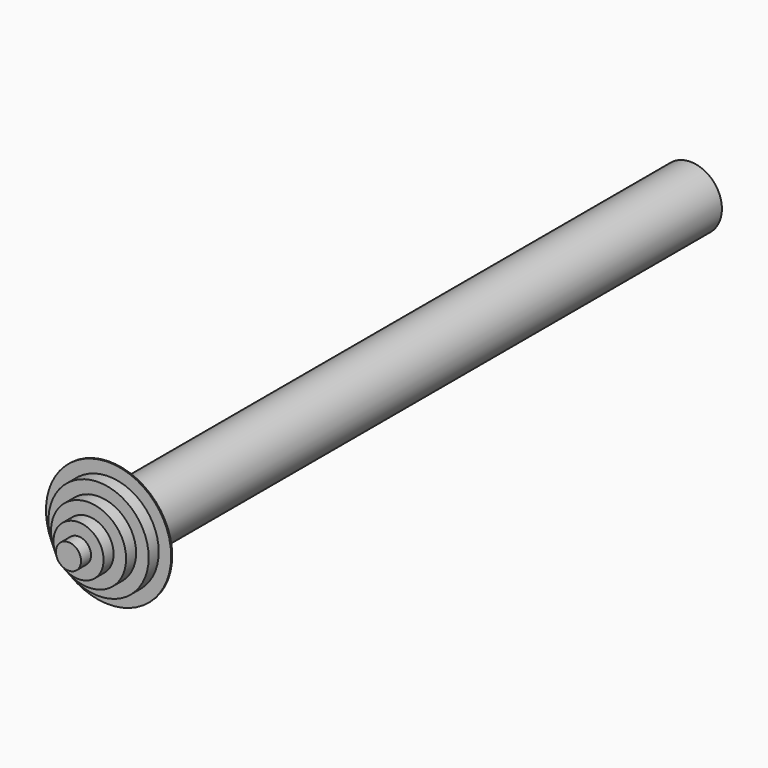
from build123d import *

# Parameters (mm, degrees)
F0_R     = 6.35
F1_DEPTH = 0.127
F3_R     = 5.084665
F3_R_2   = 3.808429
F4_DEPTH = 1.27
F3_R_3   = 2.542971
F5_DEPTH = 2.54
F3_R_4   = 1.272508
F6_DEPTH = 3.81
F7_DEPTH = 5.08
F8_R     = 3.175
F9_DEPTH = 73.66


with BuildPart() as f1:
    # F0 (on Front) → F1 (new body)
    with BuildSketch(Plane.XZ):
        Circle(F0_R)
    extrude(amount=F1_DEPTH)

    # F3 (on face) → F4 (join)
    with BuildSketch(Plane.XZ.offset(0.127)):
        Circle(F3_R)
        Circle(F3_R_2, mode=Mode.SUBTRACT)
    extrude(amount=F4_DEPTH)

    # F3 (on face) → F5 (join)
    with BuildSketch(Plane.XZ.offset(0.127)):
        Circle(F3_R_2)
        Circle(F3_R_3, mode=Mode.SUBTRACT)
    extrude(amount=F5_DEPTH)

    # F3 (on face) → F6 (join)
    with BuildSketch(Plane.XZ.offset(0.127)):
        Circle(F3_R_3)
        Circle(F3_R_4, mode=Mode.SUBTRACT)
    extrude(amount=F6_DEPTH)

    # F3 (on face) → F7 (join)
    with BuildSketch(Plane.XZ.offset(0.127)):
        Circle(F3_R_4)
    extrude(amount=F7_DEPTH)

    # F8 (on face) → F9 (join)
    with BuildSketch(Plane.XZ):
        Circle(F8_R)
    extrude(amount=-F9_DEPTH)


solid = f1.part
